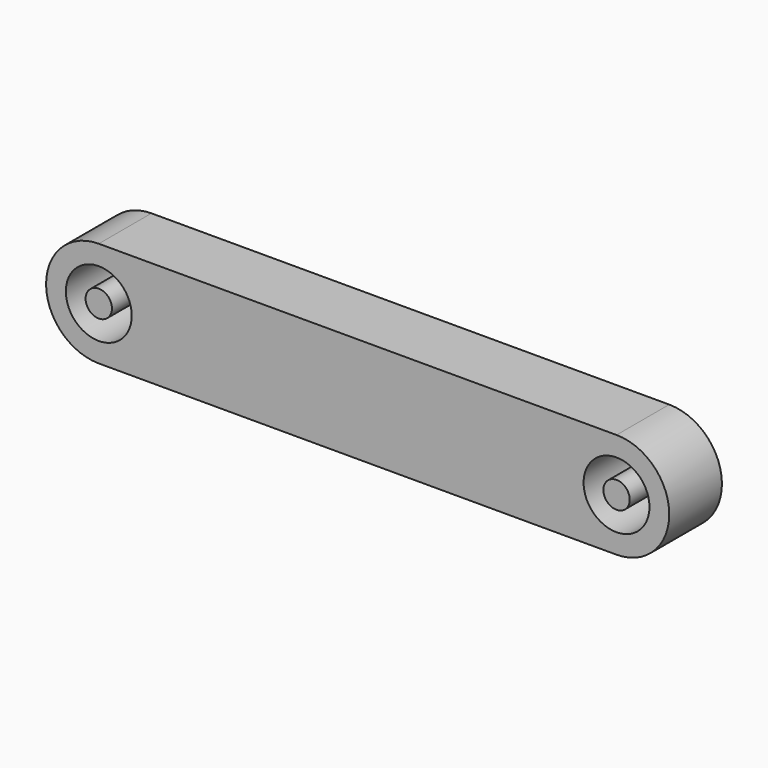
from build123d import *

# Parameters (mm, degrees)
F0_R     = 2.5
F0_R_2   = 1
F1_DEPTH = 2.5


with BuildPart() as f1:
    # F0 (on Front) → F1 (new body, symmetric)
    with BuildSketch(Plane.XZ):
        with BuildLine():
            Line((39.3, 4), (0, 4))
            ThreePointArc((0, 4), (-4, 0), (0, -4))
            Line((0, -4), (39.3, -4))
            ThreePointArc((39.3, -4), (43.3, 0), (39.3, 4))
        make_face()
        Circle(F0_R, mode=Mode.SUBTRACT)
        with Locations((39.3, 0)):
            Circle(F0_R, mode=Mode.SUBTRACT)
        Circle(F0_R_2)
        with Locations((39.3, 0)):
            Circle(F0_R_2)
    extrude(amount=F1_DEPTH, both=True)


solid = f1.part
